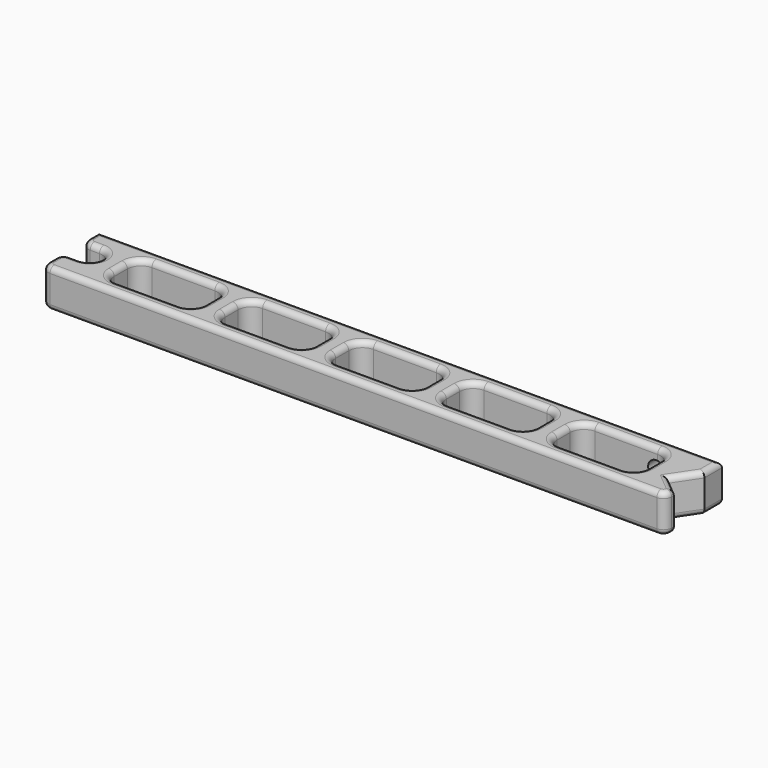
from build123d import *

# Parameters (mm, degrees)
F1_DEPTH = 7
F3_DEPTH = 7.001
F4_R     = 1
F5_R     = 1.5
F6_DEPTH = 2.8359365906


with BuildPart() as f1:
    # F0 (on Top) → F1 (new body)
    with BuildSketch(Plane.XY):
        with BuildLine():
            ThreePointArc((0, 1.5), (0.4393398282, 0.4393398282), (1.5, 0))
            Line((1.5, 0), (112.5, 0))
            ThreePointArc((112.5, 0), (113.5606601718, 0.4393398282), (114, 1.5))
            Line((114, 1.5), (114, 2))
            Line((114, 2), (111, 4.5))
            Line((111, 4.5), (114, 9))
            Line((114, 9), (114, 13))
            Line((114, 13), (0, 13))
            Line((0, 13), (0, 10.7))
            ThreePointArc((0, 10.7), (0.4393398282, 9.6393398282), (1.5, 9.2))
            Line((1.5, 9.2), (3.2, 9.2))
            ThreePointArc((3.2, 9.2), (5.5, 6.9), (3.2, 4.6))
            Line((3.2, 4.6), (1.5, 4.6))
            ThreePointArc((1.5, 4.6), (0.4393398282, 4.1606601718), (0, 3.1))
            Line((0, 3.1), (0, 1.5))
        make_face()
    extrude(amount=F1_DEPTH)

    # F2 (on face) → F3 (cut, through all)
    with BuildSketch(Plane(origin=(0, 0, 0), x_dir=(1, 0, 0), z_dir=(0, 0, -1))):
        with BuildLine():
            ThreePointArc((106.75, -5), (106.017766953, -3.232233047), (104.25, -2.5))
            Line((104.25, -2.5), (92.75, -2.5))
            ThreePointArc((92.75, -2.5), (90.982233047, -3.232233047), (90.25, -5))
            Line((90.25, -5), (90.25, -8))
            ThreePointArc((90.25, -8), (90.982233047, -9.767766953), (92.75, -10.5))
            Line((92.75, -10.5), (104.25, -10.5))
            ThreePointArc((104.25, -10.5), (106.017766953, -9.767766953), (106.75, -8))
            Line((106.75, -8), (106.75, -5))
        make_face()
        with BuildLine():
            ThreePointArc((86.5, -5), (85.767766953, -3.232233047), (84, -2.5))
            Line((84, -2.5), (72.5, -2.5))
            ThreePointArc((72.5, -2.5), (70.732233047, -3.232233047), (70, -5))
            Line((70, -5), (70, -8))
            ThreePointArc((70, -8), (70.732233047, -9.767766953), (72.5, -10.5))
            Line((72.5, -10.5), (84, -10.5))
            ThreePointArc((84, -10.5), (85.767766953, -9.767766953), (86.5, -8))
            Line((86.5, -8), (86.5, -5))
        make_face()
        with BuildLine():
            ThreePointArc((66.25, -5), (65.517766953, -3.232233047), (63.75, -2.5))
            Line((63.75, -2.5), (52.25, -2.5))
            ThreePointArc((52.25, -2.5), (50.482233047, -3.232233047), (49.75, -5))
            Line((49.75, -5), (49.75, -8))
            ThreePointArc((49.75, -8), (50.482233047, -9.767766953), (52.25, -10.5))
            Line((52.25, -10.5), (63.75, -10.5))
            ThreePointArc((63.75, -10.5), (65.517766953, -9.767766953), (66.25, -8))
            Line((66.25, -8), (66.25, -5))
        make_face()
        with BuildLine():
            ThreePointArc((46, -5), (45.267766953, -3.232233047), (43.5, -2.5))
            Line((43.5, -2.5), (32, -2.5))
            ThreePointArc((32, -2.5), (30.232233047, -3.232233047), (29.5, -5))
            Line((29.5, -5), (29.5, -8))
            ThreePointArc((29.5, -8), (30.232233047, -9.767766953), (32, -10.5))
            Line((32, -10.5), (43.5, -10.5))
            ThreePointArc((43.5, -10.5), (45.267766953, -9.767766953), (46, -8))
            Line((46, -8), (46, -5))
        make_face()
        with BuildLine():
            ThreePointArc((25.75, -5), (25.017766953, -3.232233047), (23.25, -2.5))
            Line((23.25, -2.5), (11.75, -2.5))
            ThreePointArc((11.75, -2.5), (9.982233047, -3.232233047), (9.25, -5))
            Line((9.25, -5), (9.25, -8))
            ThreePointArc((9.25, -8), (9.982233047, -9.767766953), (11.75, -10.5))
            Line((11.75, -10.5), (23.25, -10.5))
            ThreePointArc((23.25, -10.5), (25.017766953, -9.767766953), (25.75, -8))
            Line((25.75, -8), (25.75, -5))
        make_face()
    extrude(amount=-F3_DEPTH, mode=Mode.SUBTRACT)

    # F4
    f4_edges = [f1.edges().sort_by_distance(p)[0] for p in [
        (57, 13, 0),
        (114, 11, 0),
        (0, 11.85, 0),
        (112.5, 6.75, 0),
        (0.43934, 9.63934, 0),
        (112.5, 3.25, 0),
        (2.35, 9.2, 0),
        (114, 1.75, 0),
        (5.5, 6.9, 0),
        (113.56066, 0.43934, 0),
        (2.35, 4.6, 0),
        (57, 0, 0),
        (0.43934, 4.16066, 0),
        (0.43934, 0.43934, 0),
        (0, 2.3, 0),
        (17.5, 10.5, 0),
        (9.982233, 9.767767, 0),
        (9.25, 6.5, 0),
        (9.982233, 3.232233, 0),
        (17.5, 2.5, 0),
        (25.017767, 3.232233, 0),
        (25.75, 6.5, 0),
        (25.017767, 9.767767, 0),
        (37.75, 10.5, 0),
        (30.232233, 9.767767, 0),
        (29.5, 6.5, 0),
        (30.232233, 3.232233, 0),
        (37.75, 2.5, 0),
        (45.267767, 3.232233, 0),
        (46, 6.5, 0),
        (45.267767, 9.767767, 0),
        (58, 10.5, 0),
        (50.482233, 9.767767, 0),
        (49.75, 6.5, 0),
        (50.482233, 3.232233, 0),
        (58, 2.5, 0),
        (65.517767, 3.232233, 0),
        (66.25, 6.5, 0),
        (65.517767, 9.767767, 0),
        (78.25, 10.5, 0),
        (70.732233, 9.767767, 0),
        (70, 6.5, 0),
        (70.732233, 3.232233, 0),
        (78.25, 2.5, 0),
        (85.767767, 3.232233, 0),
        (86.5, 6.5, 0),
        (85.767767, 9.767767, 0),
        (98.5, 10.5, 0),
        (90.982233, 9.767767, 0),
        (90.25, 6.5, 0),
        (90.982233, 3.232233, 0),
        (98.5, 2.5, 0),
        (106.017767, 3.232233, 0),
        (106.75, 6.5, 0),
        (106.017767, 9.767767, 0),
        (57, 13, 7),
        (114, 11, 7),
        (0, 11.85, 7),
        (112.5, 6.75, 7),
        (0.43934, 9.63934, 7),
        (112.5, 3.25, 7),
        (2.35, 9.2, 7),
        (114, 1.75, 7),
        (5.5, 6.9, 7),
        (113.56066, 0.43934, 7),
        (2.35, 4.6, 7),
        (57, 0, 7),
        (0.43934, 4.16066, 7),
        (0.43934, 0.43934, 7),
        (0, 2.3, 7),
        (98.5, 10.5, 7),
        (90.982233, 9.767767, 7),
        (90.25, 6.5, 7),
        (90.982233, 3.232233, 7),
        (98.5, 2.5, 7),
        (106.017767, 3.232233, 7),
        (106.75, 6.5, 7),
        (106.017767, 9.767767, 7),
        (17.5, 10.5, 7),
        (9.982233, 9.767767, 7),
        (9.25, 6.5, 7),
        (9.982233, 3.232233, 7),
        (17.5, 2.5, 7),
        (25.017767, 3.232233, 7),
        (25.75, 6.5, 7),
        (25.017767, 9.767767, 7),
        (37.75, 10.5, 7),
        (30.232233, 9.767767, 7),
        (29.5, 6.5, 7),
        (30.232233, 3.232233, 7),
        (37.75, 2.5, 7),
        (45.267767, 3.232233, 7),
        (46, 6.5, 7),
        (45.267767, 9.767767, 7),
        (58, 10.5, 7),
        (50.482233, 9.767767, 7),
        (49.75, 6.5, 7),
        (50.482233, 3.232233, 7),
        (58, 2.5, 7),
        (65.517767, 3.232233, 7),
        (66.25, 6.5, 7),
        (65.517767, 9.767767, 7),
        (78.25, 10.5, 7),
        (70.732233, 9.767767, 7),
        (70, 6.5, 7),
        (70.732233, 3.232233, 7),
        (78.25, 2.5, 7),
        (85.767767, 3.232233, 7),
        (86.5, 6.5, 7),
        (85.767767, 9.767767, 7),
    ]]
    fillet(f4_edges, radius=F4_R)

    # F5 (on face) → F6 (cut, through all)
    with BuildSketch(Plane(origin=(0, 13, 0), x_dir=(-1, 0, 0), z_dir=(0, 1, 0))):
        with Locations((-104, 3.5)):
            Circle(F5_R)
    extrude(amount=-F6_DEPTH, mode=Mode.SUBTRACT)


solid = f1.part
